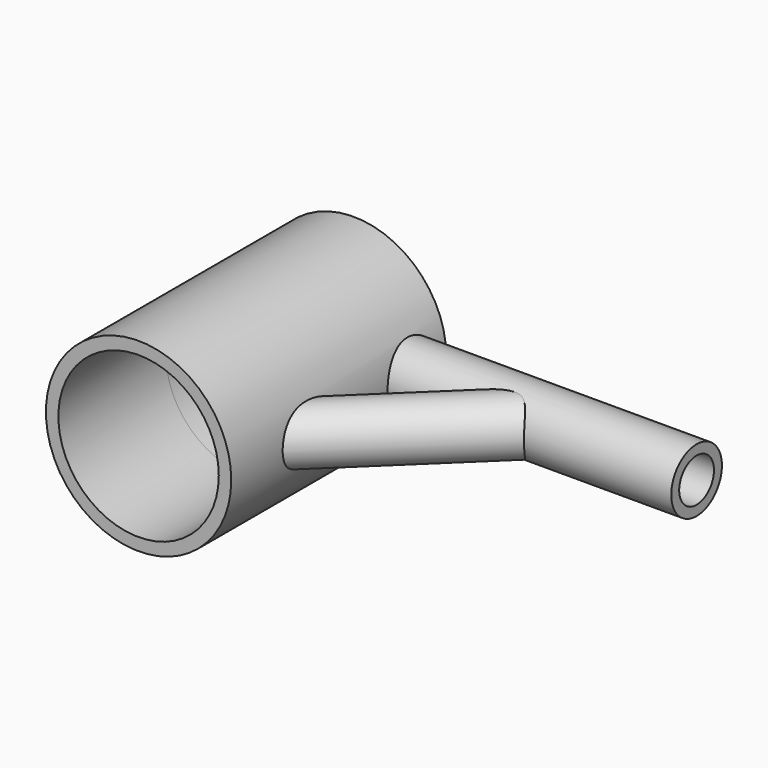
from build123d import *

# Parameters (mm, degrees)
F0_R      = 43.786601
F1_DEPTH  = 63.5
F2_R      = 36.948177
F3_DEPTH  = 127.001
F4_R      = 14.964631
F5_DEPTH  = 177.8
F6_R      = 10.234569
F7_DEPTH  = 177.8
F8_DEPTH  = 127.001
F10_DEPTH = 21.80281
F11_R     = 13.282854
F11_R_2   = 9.414952
F12_DEPTH = 119.06572
F13_R     = 8.242853
F14_DEPTH = 126.54868
F15_R     = 37.892403
F16_DEPTH = 63.501
F17_R     = 10.259839
F18_DEPTH = 185.08291
F19_DEPTH = 161.75664


with BuildPart() as f1:
    # F0 (on Front) → F1 (new body, symmetric)
    with BuildSketch(Plane.XZ):
        Circle(F0_R)
    extrude(amount=F1_DEPTH, both=True)

    # F2 (on face) → F3 (cut, through all)
    with BuildSketch(Plane.XZ.offset(63.5)):
        Circle(F2_R)
    extrude(amount=-F3_DEPTH, mode=Mode.SUBTRACT)

    # F4 (on Right) → F5 (join)
    with BuildSketch(Plane.YZ):
        with Locations((43.817297, 0)):
            Circle(F4_R)
    extrude(amount=F5_DEPTH)

    # F6 (on face) → F7 (cut)
    with BuildSketch(Plane.YZ.offset(177.8)):
        with Locations((43.817297, 0)):
            Circle(F6_R)
    extrude(amount=-F7_DEPTH, mode=Mode.SUBTRACT)

    # F2 (on face) → F8 (cut, through all)
    with BuildSketch(Plane.XZ.offset(63.5)):
        Circle(F2_R)
    extrude(amount=-F8_DEPTH, mode=Mode.SUBTRACT)

    # F9 (on Top) → F10 (join, symmetric)
    with BuildSketch(Plane.XY):
        Polygon((37.235875, -51.78196), (4.975257, -18.238248), (-1.817873, -25.221262), (30.218051, -58.531342), align=None)
    extrude(amount=F10_DEPTH, both=True)

    # F11 (on face) → F12 (join)
    with BuildSketch(Plane(origin=(-13.545415, -13.027284, 0), x_dir=(0.693187, -0.720757, 0), z_dir=(-0.720757, -0.693187, 0))):
        with Locations((40.942468, 0)):
            Circle(F11_R)
        with Locations((40.942468, 0)):
            Circle(F11_R_2, mode=Mode.SUBTRACT)
    extrude(amount=-F12_DEPTH)

    # F13 (on face) → F14 (cut)
    with BuildSketch(Plane(origin=(-13.545415, -13.027284, 0), x_dir=(0.693187, -0.720757, 0), z_dir=(-0.720757, -0.693187, 0))):
        with Locations((42.958759, 0)):
            Circle(F13_R)
    extrude(amount=-F14_DEPTH, mode=Mode.SUBTRACT)

    # F15 (on Front) → F16 (cut, through all)
    with BuildSketch(Plane.XZ):
        Circle(F15_R)
    extrude(amount=F16_DEPTH, mode=Mode.SUBTRACT)

    # F17 (on face) → F18 (cut)
    with BuildSketch(Plane.YZ.offset(177.8)):
        with Locations((43.817297, 0)):
            Circle(F17_R)
    extrude(amount=-F18_DEPTH, mode=Mode.SUBTRACT)

    # F15 (on Front) → F19 (cut)
    with BuildSketch(Plane.XZ):
        Circle(F15_R)
    extrude(amount=-F19_DEPTH, mode=Mode.SUBTRACT)


solid = f1.part
